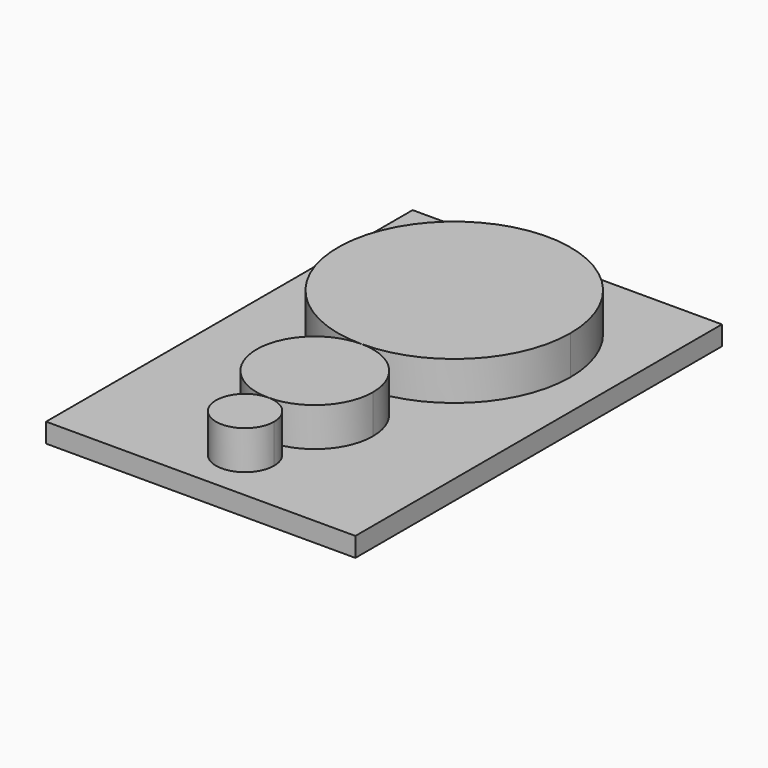
from build123d import *

# Parameters (mm, degrees)
F1_DEPTH = 6.35
F2_DEPTH = 6.35
F3_DEPTH = 6.35
F0_W     = 50.699405
F0_H     = 75.098496
F4_DEPTH = 3.175


with BuildPart() as f1:
    # F0 (on Top) → F1 (new body)
    with BuildSketch(Plane.XY):
        with BuildLine():
            ThreePointArc((19.05, 28.575), (-13.470384, 42.045384), (0, 9.525))
            ThreePointArc((0, 9.525), (13.470384, 15.104616), (19.05, 28.575))
        make_face()
    extrude(amount=F1_DEPTH)


with BuildPart() as f2:
    # F0 (on Top) → F2 (new body)
    with BuildSketch(Plane.XY):
        with BuildLine():
            ThreePointArc((0, -9.525), (6.735192, -6.735192), (9.525, 0))
            ThreePointArc((9.525, 0), (6.735192, 6.735192), (0, 9.525))
            ThreePointArc((0, 9.525), (-9.525, 0), (0, -9.525))
        make_face()
    extrude(amount=F2_DEPTH)


with BuildPart() as f3:
    # F0 (on Top) → F3 (new body)
    with BuildSketch(Plane.XY):
        with BuildLine():
            ThreePointArc((4.7625, -14.2875), (3.367596, -10.919904), (0, -9.525))
            ThreePointArc((0, -9.525), (-3.367596, -17.655096), (4.7625, -14.2875))
        make_face()
    extrude(amount=F3_DEPTH)


with BuildPart() as f4:
    # F0 (on Top) → F4 (new body)
    with BuildSketch(Plane.XY):
        with Locations((-0.316871, 14.576079)):
            Rectangle(F0_W, F0_H)
        with BuildLine():
            ThreePointArc((4.7625, -14.2875), (-3.367596, -17.655096), (0, -9.525))
            ThreePointArc((0, -9.525), (3.367596, -10.919904), (4.7625, -14.2875))
        make_face(mode=Mode.SUBTRACT)
        with BuildLine():
            ThreePointArc((0, 9.525), (6.735192, 6.735192), (9.525, 0))
            ThreePointArc((9.525, 0), (6.735192, -6.735192), (0, -9.525))
            ThreePointArc((0, -9.525), (-9.525, 0), (0, 9.525))
        make_face(mode=Mode.SUBTRACT)
        with BuildLine():
            ThreePointArc((19.05, 28.575), (13.470384, 15.104616), (0, 9.525))
            ThreePointArc((0, 9.525), (-13.470384, 42.045384), (19.05, 28.575))
        make_face(mode=Mode.SUBTRACT)
        with BuildLine():
            ThreePointArc((19.05, 28.575), (-13.470384, 42.045384), (0, 9.525))
            ThreePointArc((0, 9.525), (13.470384, 15.104616), (19.05, 28.575))
        make_face()
        with BuildLine():
            ThreePointArc((0, -9.525), (6.735192, -6.735192), (9.525, 0))
            ThreePointArc((9.525, 0), (6.735192, 6.735192), (0, 9.525))
            ThreePointArc((0, 9.525), (-9.525, 0), (0, -9.525))
        make_face()
        with BuildLine():
            ThreePointArc((4.7625, -14.2875), (3.367596, -10.919904), (0, -9.525))
            ThreePointArc((0, -9.525), (-3.367596, -17.655096), (4.7625, -14.2875))
        make_face()
    extrude(amount=-F4_DEPTH)


solid = Compound([f1.part, f2.part, f3.part, f4.part])
